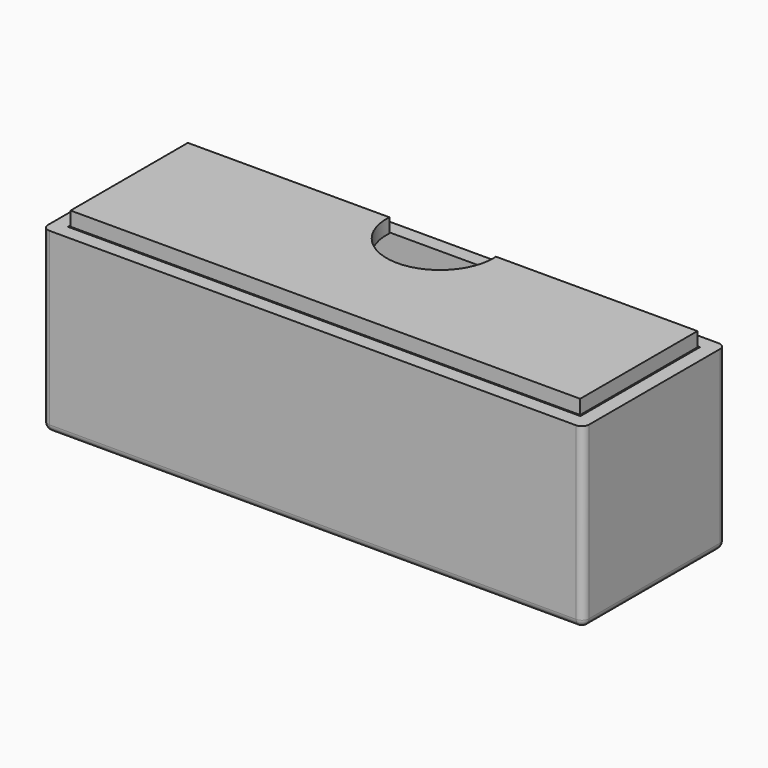
from build123d import *

# Parameters (mm, degrees)
F0_W          = 76
F0_H          = 25
F0_R          = 5
F1_DEPTH      = 25
F2_W          = 72
F2_H          = 21
F2_R          = 5
F3_DEPTH      = 23
F6_DEPTH      = 2
F7_R          = 1
F8_DEPTH      = 20
F8_DEPTH_BACK = 1


with BuildPart() as f1:
    # F0 (on Top) → F1 (new body)
    with BuildSketch(Plane.XY):
        Rectangle(F0_W, F0_H)
        with Locations((-17.5, 0)):
            Circle(F0_R, mode=Mode.SUBTRACT)
        with Locations((17.5, 0)):
            Circle(F0_R, mode=Mode.SUBTRACT)
    extrude(amount=F1_DEPTH)

    # F2 (on face) → F3 (cut)
    with BuildSketch(Plane.XY.offset(25)):
        Rectangle(F2_W, F2_H)
        with Locations((-17.5, 0)):
            Circle(F2_R, mode=Mode.SUBTRACT)
        with Locations((17.5, 0)):
            Circle(F2_R, mode=Mode.SUBTRACT)
    extrude(amount=-F3_DEPTH, mode=Mode.SUBTRACT)

    # F7
    f7_edges = [f1.edges().sort_by_distance(p)[0] for p in [
        (38, 0, 0),
        (0, -12.5, 0),
        (-38, 0, 0),
        (38, -12.5, 12.5),
        (-38, -12.5, 12.5),
        (38, 12.5, 12.5),
        (-38, 12.5, 12.5),
        (0, 12.5, 0),
    ]]
    fillet(f7_edges, radius=F7_R)

    # F4 (on face) → F8 (join, two sides)
    with BuildSketch(Plane.XY.offset(2)) as f8_sk:
        with BuildLine():
            ThreePointArc((-36, 8.5), (-34.5857864376, 9.0857864376), (-34, 10.5))
            Line((-34, 10.5), (-36, 10.5))
            Line((-36, 10.5), (-36, 8.5))
        make_face()
        with BuildLine():
            ThreePointArc((-34, -10.5), (-34.5857864376, -9.0857864376), (-36, -8.5))
            Line((-36, -8.5), (-36, -10.5))
            Line((-36, -10.5), (-34, -10.5))
        make_face()
        with BuildLine():
            Line((36, -10.5), (36, -8.5))
            ThreePointArc((36, -8.5), (34.5857864376, -9.0857864376), (34, -10.5))
            Line((34, -10.5), (36, -10.5))
        make_face()
        with BuildLine():
            Line((36, 10.5), (34, 10.5))
            ThreePointArc((34, 10.5), (34.5857864376, 9.0857864376), (36, 8.5))
            Line((36, 8.5), (36, 10.5))
        make_face()
    extrude(amount=F8_DEPTH)
    extrude(f8_sk.sketch, amount=-F8_DEPTH_BACK)


with BuildPart() as f6:
    # F5 (on face) → F6 (new body)
    with BuildSketch(Plane.XY.offset(25)):
        with BuildLine():
            Line((-35.8, -10.3), (35.8, -10.3))
            Line((35.8, -10.3), (35.8, 10.3))
            Line((35.8, 10.3), (7.4857194286, 10.3))
            ThreePointArc((7.4857194286, 10.3), (7.496429007, 10.0688070079), (7.5, 9.8373936489))
            ThreePointArc((7.5, 9.8373936489), (-0.2314133589, 2.3409646419), (-7.4857194286, 10.3))
            Line((-7.4857194286, 10.3), (-35.8, 10.3))
            Line((-35.8, 10.3), (-35.8, -10.3))
        make_face()
    extrude(amount=F6_DEPTH)


solid = Compound([f1.part, f6.part])
